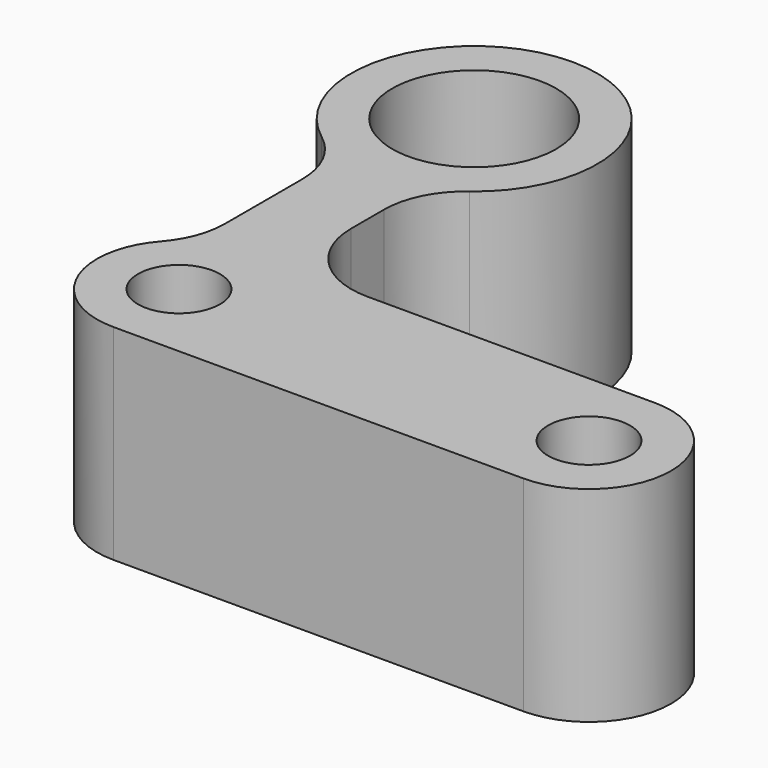
from build123d import *

# Parameters (mm, degrees)
F0_R     = 5
F0_R_2   = 10
F1_DEPTH = 25


with BuildPart() as f1:
    # F0 (on Top) → F1 (new body)
    with BuildSketch(Plane.XY):
        with BuildLine():
            ThreePointArc((-44.420289, -19.273303), (-46.034667, -30.002059), (-36.920289, -35.887681))
            Line((-36.920289, -35.887681), (13.079711, -35.887681))
            ThreePointArc((13.079711, -35.887681), (23.079711, -25.887681), (13.079711, -15.887681))
            Line((13.079711, -15.887681), (-21.920289, -15.887681))
            ThreePointArc((-21.920289, -15.887681), (-28.991357, -12.958749), (-31.920289, -5.887681))
            Line((-31.920289, -5.887681), (-31.920289, -0.887681))
            ThreePointArc((-31.920289, -0.887681), (-30.864561, 3.584455), (-27.920289, 7.112319))
            ThreePointArc((-27.920289, 7.112319), (-36.920289, 34.112319), (-45.920289, 7.112319))
            ThreePointArc((-45.920289, 7.112319), (-42.976017, 3.584455), (-41.920289, -0.887681))
            Line((-41.920289, -0.887681), (-41.920289, -12.658924))
            ThreePointArc((-41.920289, -12.658924), (-42.566146, -16.194458), (-44.420289, -19.273303))
        make_face()
        with Locations((-36.920289, -25.887681)):
            Circle(F0_R, mode=Mode.SUBTRACT)
        with BuildLine():
            ThreePointArc((8.079711, -25.887681), (13.079711, -20.887681), (18.079711, -25.887681))
            ThreePointArc((18.079711, -25.887681), (13.079711, -30.887681), (8.079711, -25.887681))
        make_face(mode=Mode.SUBTRACT)
        with Locations((-36.920289, 19.112319)):
            Circle(F0_R_2, mode=Mode.SUBTRACT)
    extrude(amount=F1_DEPTH)


solid = f1.part
